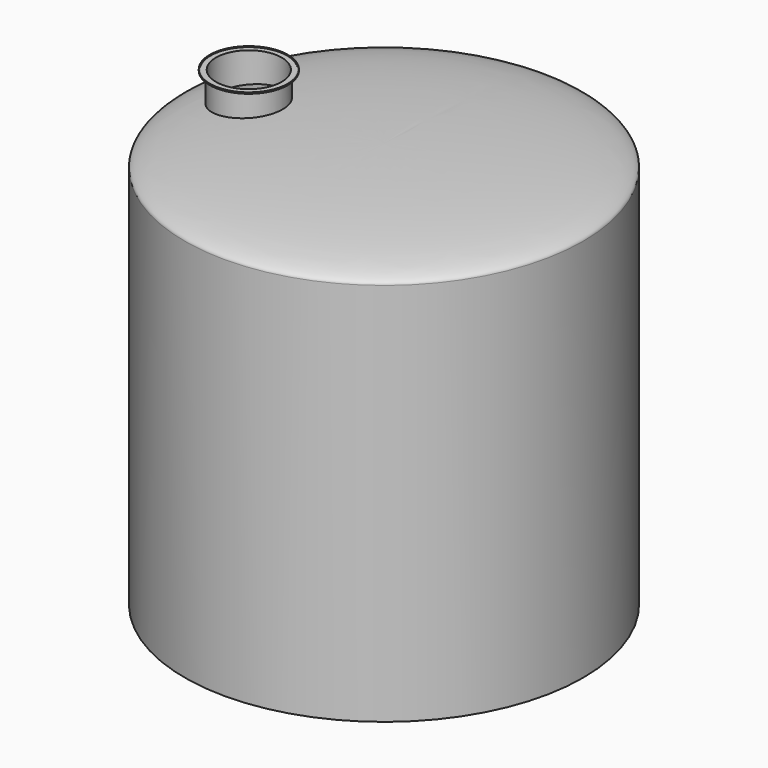
from build123d import *

# Parameters (mm, degrees)
F3_R     = 241.3
F3_R_2   = 279.4
F5_DEPTH = 9.525
F6_T     = -6.35


with BuildPart() as f1:
    # F0 (on Right) → F1 (revolve)
    with BuildSketch(Plane.YZ):
        with BuildLine():
            Line((0, 2895.6), (0, 0))
            Line((0, 0), (1422.4, 0))
            Line((1422.4, 0), (1422.4, 2743.2))
            add(Edge.make_bspline(
                [(1422.4, 2743.2), (1422.4, 2895.6), (0, 2895.6)],
                knots=[0, 0, 0, 1.5707963268, 1.5707963268, 1.5707963268], degree=2, weights=[1, 0.7071067812, 1]))
        make_face()
    revolve(axis=Axis((0, 0, 1447.8), (0, 0, -1)))

    # F3 (on offset) → F4 (join, up to the next surface of F1)
    with BuildSketch(Plane.XY.offset(3048)):
        with Locations((-965.2, 0)):
            Circle(F3_R)
    extrude(until=Until.NEXT, dir=(0, 0, -1))

    # F3 (on offset) → F5 (join)
    with BuildSketch(Plane.XY.offset(3048)):
        with Locations((-965.2, 0)):
            Circle(F3_R_2)
        with Locations((-965.2, 0)):
            Circle(F3_R, mode=Mode.SUBTRACT)
    extrude(amount=-F5_DEPTH)

    # F6
    f6_openings = [f1.faces().sort_by_distance(p)[0] for p in [
        (-965.2, 0, 3048),
    ]]
    offset(amount=F6_T, openings=f6_openings, kind=Kind.INTERSECTION)


solid = f1.part
